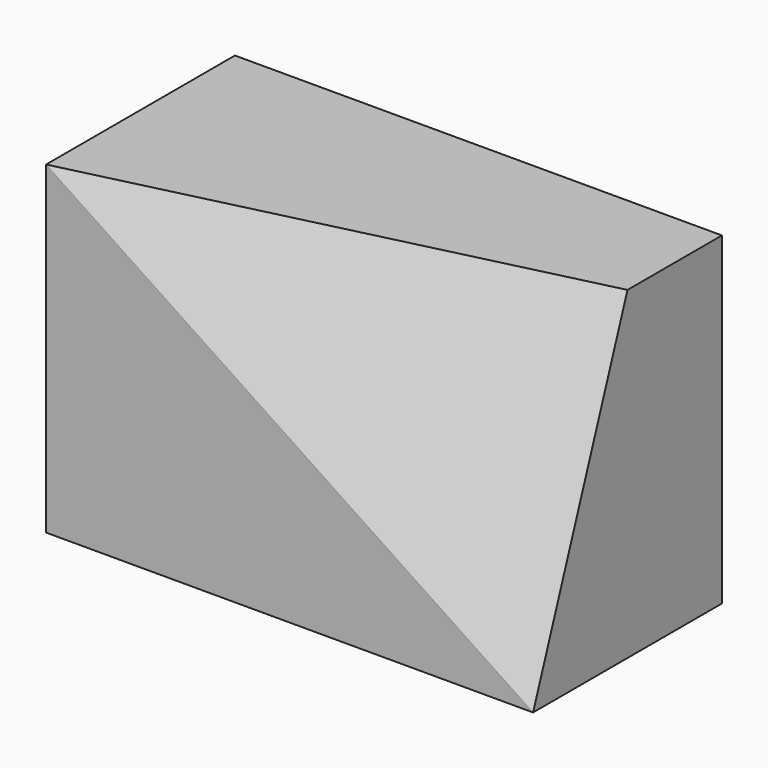
from build123d import *

# Parameters (mm, degrees)
F0_W     = 206.4777240157
F0_H     = 137.3893991113
F1_DEPTH = 100.076
F5_DEPTH = 45.8442839212


with BuildPart() as f1:
    # F0 (on Front) → F1 (new body)
    with BuildSketch(Plane.XZ):
        with Locations((-22.1995897591, 1.5661381185)):
            Rectangle(F0_W, F0_H)
    extrude(amount=F1_DEPTH)

    # F4 (on 3pt) → F5 (cut, through all)
    with BuildSketch(Plane(origin=(19.3784317983, -79.9635175807, 29.1231675703), x_dir=(-0.975040899, -0.208619769, 0.0759805056), z_dir=(-0.2220253257, 0.9161693897, -0.3336740987))):
        Polygon((-63.2392349005, 48.8948148407), (-63.2392349005, -97.3229967698), (148.5239067524, 31.7710361682), align=None)
    extrude(amount=-F5_DEPTH, mode=Mode.SUBTRACT)


solid = f1.part
